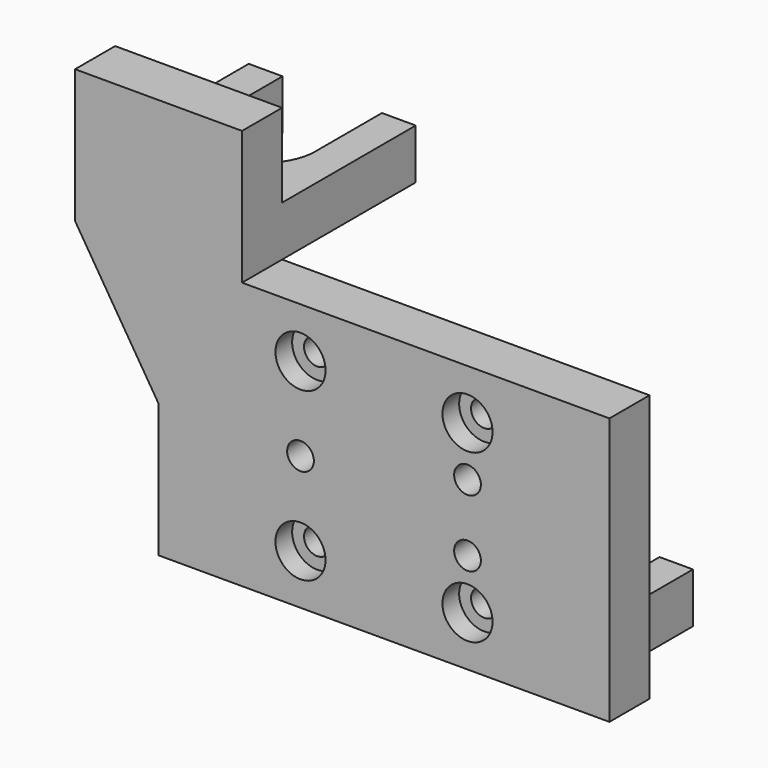
from build123d import *

# Parameters (mm, degrees)
SKETCH033_W     = 30
SKETCH033_H     = 32
PAD023_DEPTH    = 6
PAD024_DEPTH    = 6
SKETCH035_R     = 1.575
POCKET011_DEPTH = 6
SKETCH045_W     = 20
SKETCH045_H     = 6
PAD030_DEPTH    = 20
POCKET016_DEPTH = 12
SKETCH047_R     = 1.6
POCKET017_DEPTH = 6
SKETCH048_R     = 3
POCKET018_DEPTH = 2.5
SKETCH049_R     = 3
POCKET019_DEPTH = 2.5
SKETCH084_W     = 4
SKETCH084_H     = 6
PAD049_DEPTH    = 14
SKETCH085_R     = 3.975
POCKET036_DEPTH = 5.2


with BuildPart() as part:
    # Sketch033 → Pad023 (new body)
    with BuildSketch(Plane.XZ):
        Rectangle(SKETCH033_W, SKETCH033_H)
    extrude(amount=PAD023_DEPTH)

    # Sketch034 (on Face6 of Pad023) → Pad024 (join)
    with BuildSketch(Plane.XZ.offset(6)):
        Polygon((-15, 16), (15, 16), (27, 16), (27, -16), (15, -16), (-15, -16), (-27, -16), (-27, 0), (-37, 16), (-37, 32), (-17, 32), (-17, 16), align=None)
    extrude(amount=-PAD024_DEPTH)

    # Sketch035 (on Face9 of Pad024) → Pocket011 (cut)
    with BuildSketch(Plane.XZ.offset(6)):
        with Locations((-10, 10)):
            Circle(SKETCH035_R)
        with Locations((10, 10)):
            Circle(SKETCH035_R)
        with Locations((10, -10)):
            Circle(SKETCH035_R)
        with Locations((-10, -10)):
            Circle(SKETCH035_R)
    extrude(amount=-POCKET011_DEPTH, mode=Mode.SUBTRACT)

    # Sketch045 → Pad030 (join)
    with BuildSketch(Plane(origin=(0, 0, 0), x_dir=(1, 0, 0), z_dir=(0, 1, 0))):
        with Locations((-27, -19)):
            Rectangle(SKETCH045_W, SKETCH045_H)
    extrude(amount=PAD030_DEPTH)

    # Sketch046 (on Face13 of Pad030) → Pocket016 (cut)
    with BuildSketch(Plane(origin=(0, 0, 16), x_dir=(1, 0, 0), z_dir=(0, 0, -1))):
        with BuildLine():
            ThreePointArc((-21.05, -10), (-27, -4.05), (-32.95, -10))
            Line((-32.95, -10), (-32.95, -25))
            ThreePointArc((-32.95, -25), (-27, -30.95), (-21.05, -25))
            Line((-21.05, -10), (-21.05, -25))
        make_face()
    extrude(amount=-POCKET016_DEPTH, mode=Mode.SUBTRACT)

    # Sketch047 (on Face4 of Pocket016) → Pocket017 (cut)
    with BuildSketch(Plane.XZ.offset(6)):
        with Locations((10, -4)):
            Circle(SKETCH047_R)
        with Locations((10, 4)):
            Circle(SKETCH047_R)
        with Locations((-10, 0)):
            Circle(SKETCH047_R)
    extrude(amount=-POCKET017_DEPTH, mode=Mode.SUBTRACT)

    # Sketch048 (on Face4 of Pocket017) → Pocket018 (cut)
    with BuildSketch(Plane.XZ.offset(6)):
        with Locations((-10, 10)):
            Circle(SKETCH048_R)
        with Locations((10, 10)):
            Circle(SKETCH048_R)
        with Locations((10, -10)):
            Circle(SKETCH048_R)
        with Locations((-10, -10)):
            Circle(SKETCH048_R)
    extrude(amount=-POCKET018_DEPTH, mode=Mode.SUBTRACT)

    # Sketch049 (on Face5 of Pocket018) → Pocket019 (cut)
    with BuildSketch(Plane(origin=(0, 0, 0), x_dir=(1, 0, 0), z_dir=(0, 1, 0))):
        with Locations((-10, 0)):
            Circle(SKETCH049_R)
        with Locations((10, 4)):
            Circle(SKETCH049_R)
        with Locations((10, -4)):
            Circle(SKETCH049_R)
    extrude(amount=-POCKET019_DEPTH, mode=Mode.SUBTRACT)

    # Sketch084 (on Face8 of Pad024) → Pad049 (join)
    with BuildSketch(Plane(origin=(0, 0, 0), x_dir=(1, 0, 0), z_dir=(0, 1, 0))):
        with Locations((19, 13)):
            Rectangle(SKETCH084_W, SKETCH084_H)
    extrude(amount=PAD049_DEPTH)

    # Sketch085 (on Face4 of Pad049) → Pocket036 (cut)
    with BuildSketch(Plane(origin=(0, 0, 0), x_dir=(1, 0, 0), z_dir=(0, 1, 0))):
        with Locations((21, 0)):
            Circle(SKETCH085_R)
        with Locations((-21, 7)):
            Circle(SKETCH085_R)
        with Locations((-21, -7)):
            Circle(SKETCH085_R)
    extrude(amount=-POCKET036_DEPTH, mode=Mode.SUBTRACT)


with BuildPart() as part_1:
    # Body005 placement: moved
    add(part.part.moved(Location((-1, -37, 39.4))))


solid = part_1.part
